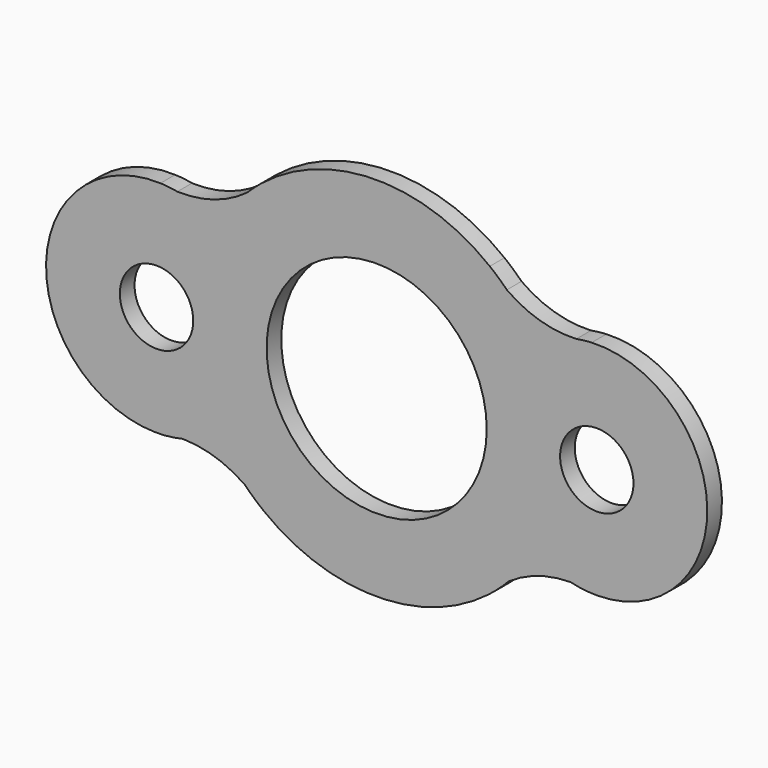
from build123d import *

# Parameters (mm, degrees)
F0_R     = 12.7
F0_R_2   = 38.1
F1_DEPTH = 6.35


with BuildPart() as f1:
    # F0 (on Front) → F1 (new body)
    with BuildSketch(Plane.XZ):
        with BuildLine():
            ThreePointArc((-74.840235, 38.224608), (-71.936443, 37.783001), (-69.007261, 37.566396))
            ThreePointArc((-69.007261, 37.566396), (-71.911102, 38.007565), (-74.840235, 38.224608))
        make_face()
        with BuildLine():
            ThreePointArc((-44.816687, 45.153377), (-56.262406, 39.288785), (-69.007261, 37.566396))
            ThreePointArc((-69.007261, 37.566396), (-71.936443, 37.783001), (-74.840235, 38.224608))
            ThreePointArc((-74.840235, 38.224608), (-114.437604, 0.924785), (-76.689684, -38.245651))
            ThreePointArc((-76.689684, -38.245651), (-71.957825, -37.403906), (-67.157643, -37.164572))
            ThreePointArc((-67.157643, -37.164572), (-55.830531, -39.04555), (-45.578207, -44.215791))
            ThreePointArc((-45.578207, -44.215791), (-42.224657, -46.898584), (-39.194334, -49.941743))
            ThreePointArc((-39.194334, -49.941743), (-0.380889, -63.414928), (38.556944, -50.305566))
            ThreePointArc((38.556944, -50.305566), (41.938142, -46.870426), (45.725991, -43.889674))
            ThreePointArc((45.725991, -43.889674), (55.929148, -38.912077), (67.145973, -37.16173))
            ThreePointArc((67.145973, -37.16173), (71.797666, -37.422134), (76.382798, -38.248349))
            ThreePointArc((76.382798, -38.248349), (114.436386, 0.97387), (74.435475, 38.208063))
            ThreePointArc((74.435475, 38.208063), (71.775519, 37.801049), (69.09347, 37.5828))
            ThreePointArc((69.09347, 37.5828), (56.47323, 39.12715), (45.063845, 44.737979))
            ThreePointArc((45.063845, 44.737979), (41.977943, 47.21637), (39.165807, 50.001527))
            ThreePointArc((39.165807, 50.001527), (-0.447535, 63.583335), (-39.902663, 49.548552))
            ThreePointArc((-39.902663, 49.548552), (-42.264429, 47.244475), (-44.816687, 45.153377))
        make_face()
        with Locations((-76.2, 0)):
            Circle(F0_R, mode=Mode.SUBTRACT)
        Circle(F0_R_2, mode=Mode.SUBTRACT)
        with Locations((76.2, 0)):
            Circle(F0_R, mode=Mode.SUBTRACT)
        with BuildLine():
            ThreePointArc((-39.902663, 49.548552), (-42.416754, 47.414782), (-44.816687, 45.153377))
            ThreePointArc((-44.816687, 45.153377), (-42.264429, 47.244475), (-39.902663, 49.548552))
        make_face()
        with BuildLine():
            ThreePointArc((-67.157643, -37.164572), (-71.957825, -37.403906), (-76.689684, -38.245651))
            ThreePointArc((-76.689684, -38.245651), (-71.889636, -38.005136), (-67.157643, -37.164572))
        make_face()
        with BuildLine():
            ThreePointArc((45.063845, 44.737979), (42.196813, 47.461624), (39.165807, 50.001527))
            ThreePointArc((39.165807, 50.001527), (41.977943, 47.21637), (45.063845, 44.737979))
        make_face()
        with BuildLine():
            ThreePointArc((-39.194334, -49.941743), (-42.224657, -46.898584), (-45.578207, -44.215791))
            ThreePointArc((-45.578207, -44.215791), (-42.483041, -47.186656), (-39.194334, -49.941743))
        make_face()
        with BuildLine():
            ThreePointArc((74.435475, 38.208063), (71.753468, 37.989446), (69.09347, 37.5828))
            ThreePointArc((69.09347, 37.5828), (71.775519, 37.801049), (74.435475, 38.208063))
        make_face()
        with BuildLine():
            ThreePointArc((45.725991, -43.889674), (41.938142, -46.870426), (38.556944, -50.305566))
            ThreePointArc((38.556944, -50.305566), (42.263149, -47.233586), (45.725991, -43.889674))
        make_face()
        with BuildLine():
            ThreePointArc((67.145973, -37.16173), (71.731235, -37.986837), (76.382798, -38.248349))
            ThreePointArc((76.382798, -38.248349), (71.797666, -37.422134), (67.145973, -37.16173))
        make_face()
    extrude(amount=F1_DEPTH)


solid = f1.part
